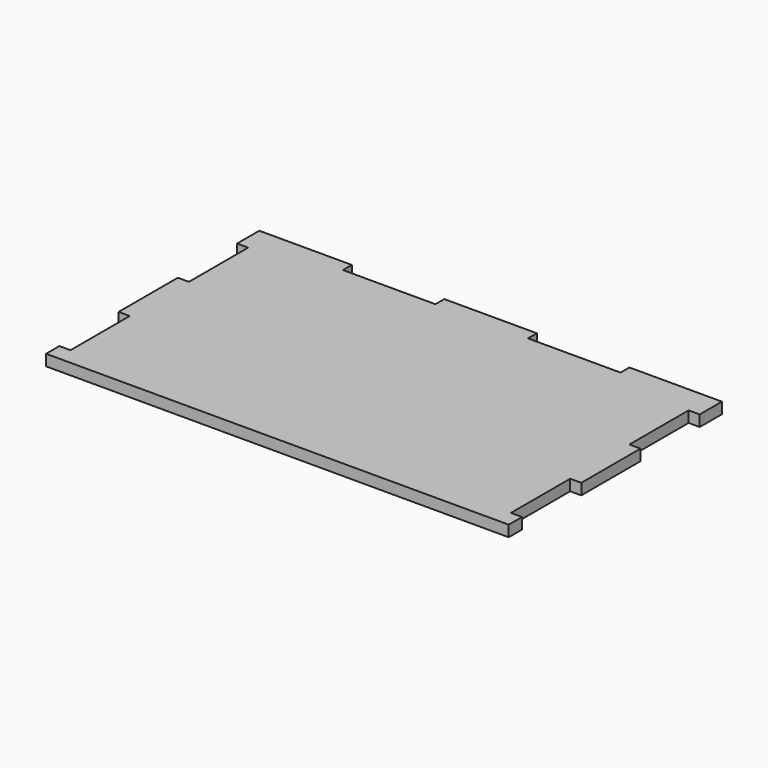
from build123d import *

# Parameters (mm, degrees)
F1_DEPTH = 6


with BuildPart() as f1:
    # F0 (on Top) → F1 (new body)
    with BuildSketch(Plane.XY):
        Polygon((-58.482562, -52.841186), (-64.482562, -52.841186), (-64.482562, -61.841186), (185.517438, -61.841186), (185.517438, -52.841186), (179.517438, -52.841186), (179.517438, -12.841186), (185.517438, -12.841186), (185.517438, 27.158814), (179.517438, 27.158814), (179.517438, 67.158814), (185.517438, 67.158814), (185.517438, 82.158814), (135.517438, 82.158814), (135.517438, 76.158814), (85.517438, 76.158814), (85.517438, 82.158814), (35.517438, 82.158814), (35.517438, 76.158814), (-14.482562, 76.158814), (-14.482562, 82.158814), (-64.482562, 82.158814), (-64.482562, 67.158814), (-58.482562, 67.158814), (-58.482562, 27.158814), (-64.482562, 27.158814), (-64.482562, -12.841186), (-58.482562, -12.841186), align=None)
    extrude(amount=F1_DEPTH)


solid = f1.part
